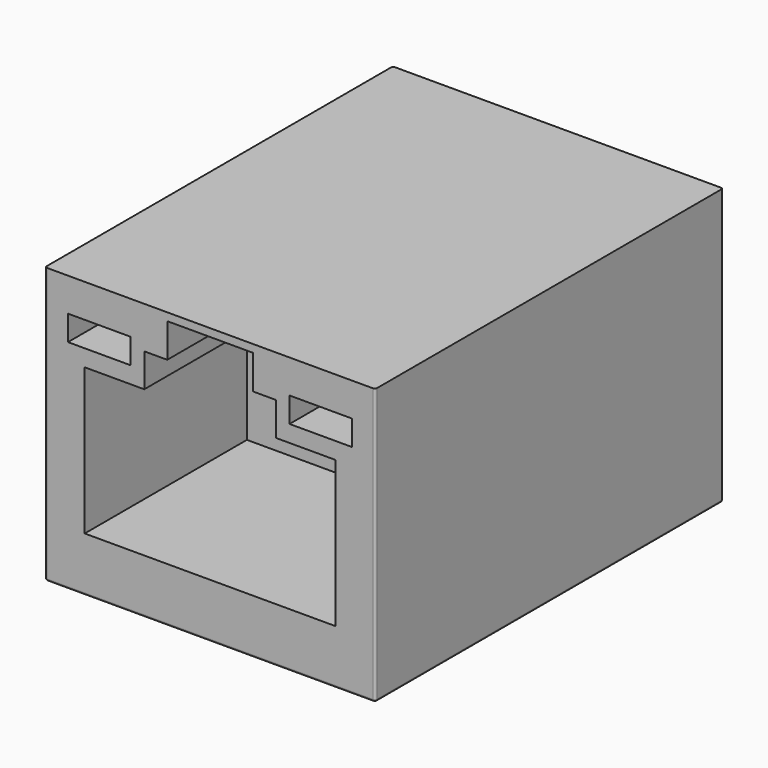
from build123d import *

# Parameters (mm, degrees)
BOX038_W               = 4.1
BOX038_H               = 5
BOX038_DEPTH           = 2
BOX038_PLACEMENT_ANGLE = 20
BOX037_W               = 2.85
BOX037_H               = 2.4
BOX037_DEPTH           = 1.5
BOX036_W               = 12
BOX036_H               = 1
BOX036_DEPTH           = 5
SKETCH005_W            = 3
SKETCH005_H            = 1.2
EXTRUDE005_DEPTH       = 10.8
BOX007_W               = 15.8
BOX007_H               = 20.8
BOX007_DEPTH           = 13.2
FILLET008_R            = 0.1


with BuildPart() as cube:
    # Box038 → Box038 (new body)
    with BuildSketch(Plane.XY):
        with Locations((2.05, 2.5)):
            Rectangle(BOX038_W, BOX038_H)
    extrude(amount=BOX038_DEPTH)


with BuildPart() as cube_1:
    # Box038 placement: moved
    add(cube.part.moved(Location((-2.05, -1, 11.2))).rotate(Axis((-2.05, -1, 11.2), (-1, 0, 0)), BOX038_PLACEMENT_ANGLE))


with BuildPart() as box037:
    # Box037 → Box037 (new body)
    with BuildSketch(Plane(origin=(3.15, 8.4, 8.2), x_dir=(1, 0, 0), z_dir=(0, 0, 1))):
        with Locations((1.425, 1.2)):
            Rectangle(BOX037_W, BOX037_H)
    extrude(amount=BOX037_DEPTH)


with BuildPart() as clone:
    # Clone base: copy of Box037
    add(box037.part)


with BuildPart() as clone_1:
    # Clone placement: moved
    add(clone.part.moved(Location((-9.15, 0, 0))))


with BuildPart() as fusion024:
    # Box036 → Box036 (new body)
    with BuildSketch(Plane(origin=(-6, 9.8, 2.7), x_dir=(1, 0, 0), z_dir=(0, 0, 1))):
        with Locations((6, 0.5)):
            Rectangle(BOX036_W, BOX036_H)
    extrude(amount=BOX036_DEPTH)

    # Fusion024: union Box037, Clone
    add(box037.part)
    add(clone_1.part)


with BuildPart() as fusion025:
    # Sketch005 → Extrude005 (new body)
    with BuildSketch(Plane.XZ):
        Polygon((-6, 9.7), (-6, 2.7), (6, 2.7), (6, 9.7), (3.15, 9.7), (3.15, 11.3), (2.05, 11.3), (2.05, 12.5), (-2.05, 12.5), (-2.05, 11.3), (-3.15, 11.3), (-3.15, 9.7), align=None)
        with Locations((-5.3, 11.1)):
            Rectangle(SKETCH005_W, SKETCH005_H)
        with Locations((5.3, 11.1)):
            Rectangle(SKETCH005_W, SKETCH005_H)
    extrude(amount=-EXTRUDE005_DEPTH)

    # Cut001: cut Fusion024
    add(fusion024.part, mode=Mode.SUBTRACT)

    # Fusion025: union Cube
    add(cube_1.part)


with BuildPart() as fusion025_1:
    # Fusion025 placement: moved
    add(fusion025.part.moved(Location((0, 0.1, 0.1))))


with BuildPart() as body:
    # Box007 → Box007 (new body)
    with BuildSketch(Plane(origin=(-7.9, 0.2, 0.2), x_dir=(1, 0, 0), z_dir=(0, 0, 1))):
        with Locations((7.9, 10.4)):
            Rectangle(BOX007_W, BOX007_H)
    extrude(amount=BOX007_DEPTH)

    # Fillet008
    fillet008_edges = [body.edges().sort_by_distance(p)[0] for p in [
        (-7.9, 0.2, 6.8),
        (-7.9, 21, 6.8),
        (-7.9, 10.6, 0.2),
        (7.9, 0.2, 6.8),
        (7.9, 21, 6.8),
        (7.9, 10.6, 0.2),
        (0, 0.2, 0.2),
        (0, 21, 0.2),
    ]]
    fillet(fillet008_edges, radius=FILLET008_R)

    # Cut008: cut Fusion025
    add(fusion025_1.part, mode=Mode.SUBTRACT)


solid = body.part
